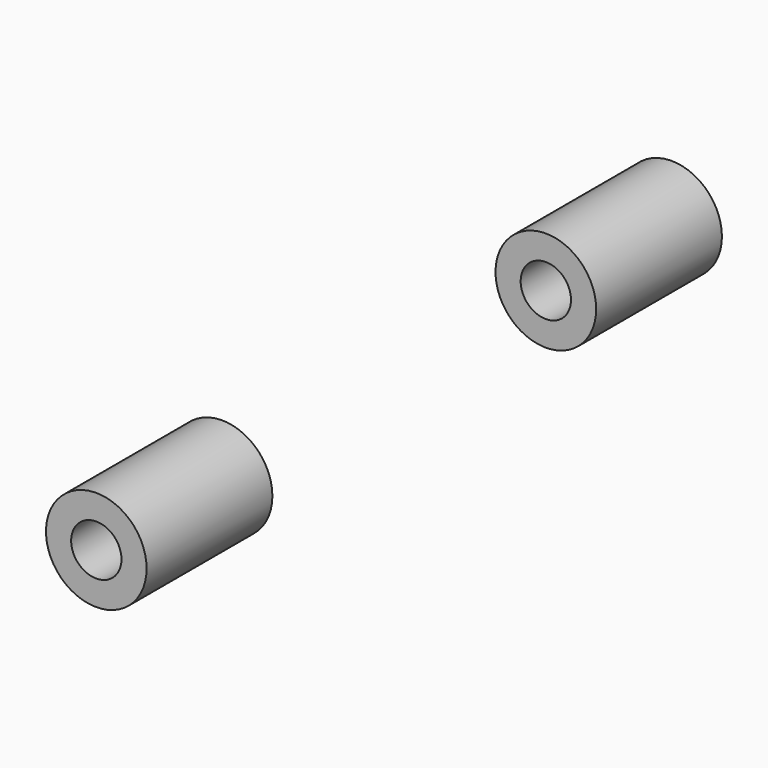
from build123d import *

# Parameters (mm, degrees)
LM8UU_0_INT_R          = 4
LM8UU_0_INT_DEPTH      = 27
LM8UU_0_INT_ROLL_ANGLE = -90
LM8UU_0_EXT_R          = 8
LM8UU_0_EXT_DEPTH      = 25
LM8UU_0_EXT_ROLL_ANGLE = -90


with BuildPart() as lm8uu_0_int:
    # lm8uu_0_int → lm8uu_0_int (new body)
    with BuildSketch(Plane.XY):
        Circle(LM8UU_0_INT_R)
    extrude(amount=LM8UU_0_INT_DEPTH)


with BuildPart() as lm8uu_0_int_1:
    # lm8uu_0_int roll: moved
    add(lm8uu_0_int.part.rotate(Axis((0, 0, 0), (1, 0, 0)), LM8UU_0_INT_ROLL_ANGLE))


with BuildPart() as lm8uu_0_int_2:
    # lm8uu_0_int placement: moved
    add(lm8uu_0_int_1.part.moved(Location((0, -58.175, 0))))


with BuildPart() as lm8uu_0_body:
    # lm8uu_0_ext → lm8uu_0_ext (new body)
    with BuildSketch(Plane.XY):
        Circle(LM8UU_0_EXT_R)
    extrude(amount=LM8UU_0_EXT_DEPTH)


with BuildPart() as lm8uu_0_body_1:
    # lm8uu_0_ext roll: moved
    add(lm8uu_0_body.part.rotate(Axis((0, 0, 0), (1, 0, 0)), LM8UU_0_EXT_ROLL_ANGLE))


with BuildPart() as lm8uu_0_body_2:
    # lm8uu_0_ext placement: moved
    add(lm8uu_0_body_1.part.moved(Location((0, -57.175, 0))))

    # lm8uu_0: cut lm8uu_0_int
    add(lm8uu_0_int_2.part, mode=Mode.SUBTRACT)


with BuildPart() as clone:
    # Clone base: copy of lm8uu_0 body
    add(lm8uu_0_body_2.part)


with BuildPart() as clone_1:
    # Clone placement: moved
    add(clone.part.moved(Location((0, 89.35, 0))))


with BuildPart() as obj1:
    # obj1 base: copy of lm8uu_0 body
    add(lm8uu_0_body_2.part)

    # obj1: union Clone
    add(clone_1.part)


solid = obj1.part
